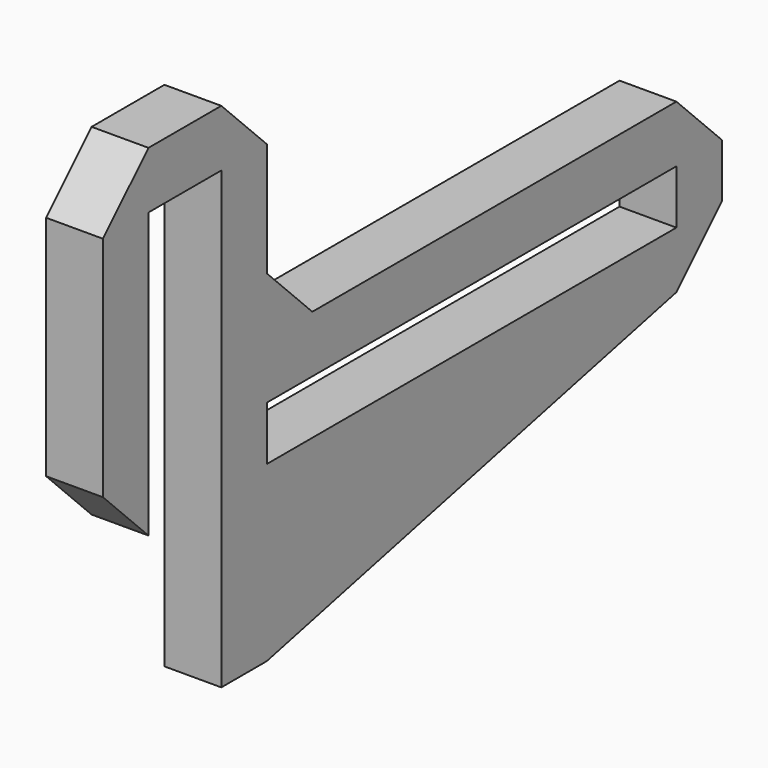
from build123d import *

# Parameters (mm, degrees)
F0_W     = 180
F0_H     = 19
F1_DEPTH = 20


with BuildPart() as f1:
    # F0 (on Right) → F1 (new body)
    with BuildSketch(Plane.YZ):
        Polygon((52, 99.206252), (52, -60.793748), (72, -60.793748), (252, -19.793748), (272, 0.206252), (272, 19.206252), (252, 39.206252), (92, 39.206252), (72, 59.206252), (72, 99.206252), (52, 119.206252), (20, 119.206252), (0, 99.206252), (0, 19.206252), (20, -0.793748), (20, 99.206252), align=None)
        with Locations((162, 9.706252)):
            Rectangle(F0_W, F0_H, mode=Mode.SUBTRACT)
    extrude(amount=F1_DEPTH)


solid = f1.part
